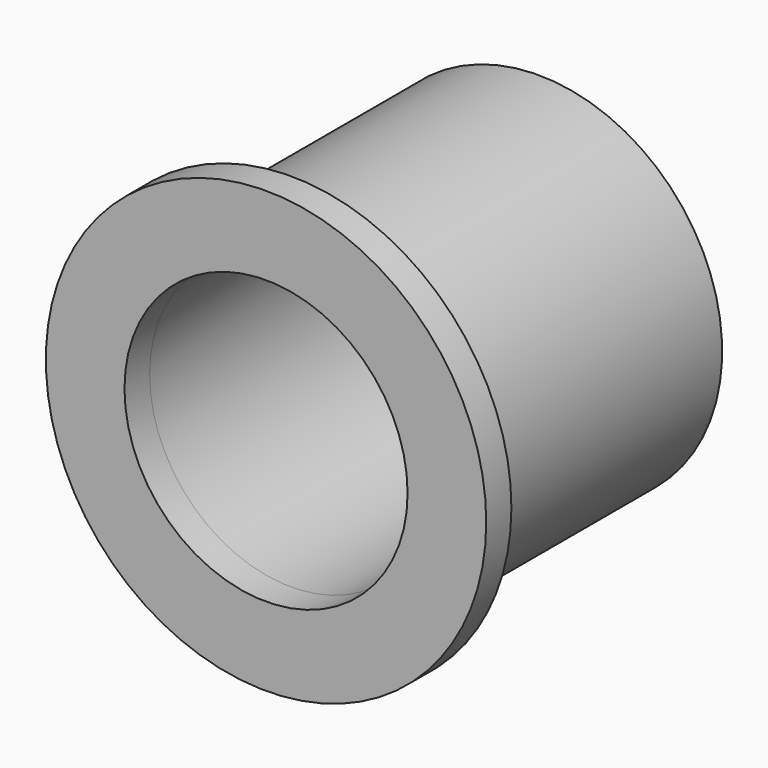
from build123d import *

# Parameters (mm, degrees)
F0_R     = 21
F0_R_2   = 17.5
F0_R_3   = 13.5
F1_DEPTH = 3
F2_R     = 17.5
F2_R_2   = 13.5
F3_DEPTH = 29.5


with BuildPart() as f1:
    # F0 (on Front) → F1 (new body)
    with BuildSketch(Plane.XZ):
        Circle(F0_R)
        Circle(F0_R_2, mode=Mode.SUBTRACT)
        Circle(F0_R_2)
        Circle(F0_R_3, mode=Mode.SUBTRACT)
    extrude(amount=F1_DEPTH)

    # F2 (on face) → F3 (join)
    with BuildSketch(Plane(origin=(0, 0, 0), x_dir=(-1, 0, 0), z_dir=(0, 1, 0))):
        Circle(F2_R)
        Circle(F2_R_2, mode=Mode.SUBTRACT)
    extrude(amount=F3_DEPTH)


solid = f1.part
